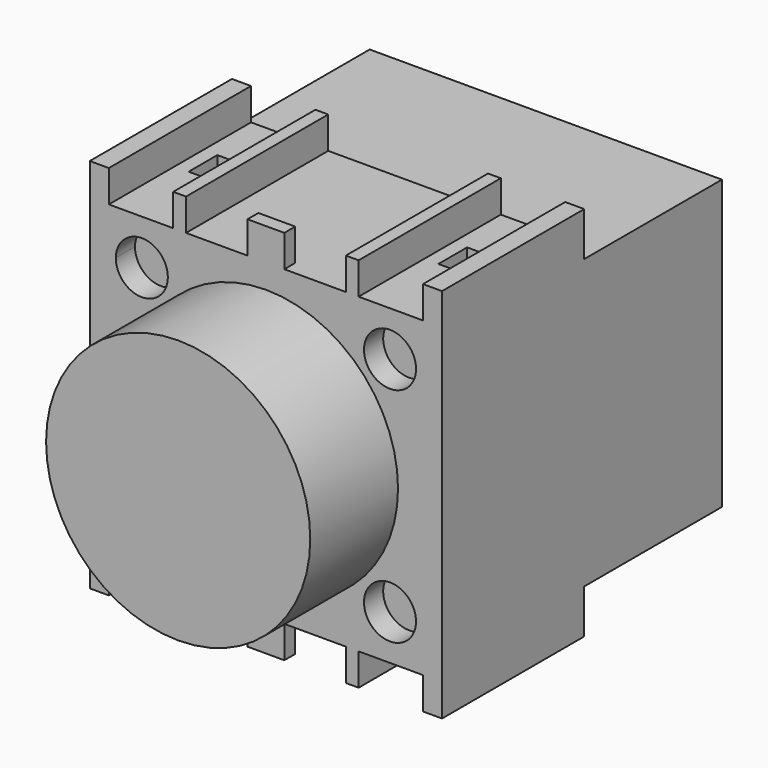
from build123d import *

# Parameters (mm, degrees)
F0_R      = 3.25
F0_R_2    = 16.5
F1_DEPTH  = 22.2
F2_W      = 4.6
F2_H      = 20.5
F3_DEPTH  = 4
F4_W      = 4.6
F4_H      = 20.5
F5_DEPTH  = 4
F6_DEPTH  = 3
F7_DEPTH  = 13.7
F8_W      = 44
F8_H      = 36
F9_DEPTH  = 21.5
F10_W     = 4.527392
F10_H     = 4.484308
F12_DEPTH = 3
F11_W     = 4.516719
F11_H     = 4.586656
F11_W_2   = 4.516715
F11_H_2   = 4.484454
F13_DEPTH = 3


with BuildPart() as f1:
    # F0 (on Front) → F1 (new body)
    with BuildSketch(Plane.XZ):
        Polygon((19.62, -23.5), (22, -23.5), (22, -19.5), (22, 19.5), (22, 23.5), (19.62, 23.5), (19.62, 19.5), (11.58, 19.5), (11.58, 23.5), (9.98, 23.5), (9.98, 19.5), (2.3, 19.5), (2.3, 23.5), (-2.3, 23.5), (-2.3, 19.5), (-9.98, 19.5), (-9.98, 23.5), (-11.58, 23.5), (-11.58, 19.5), (-19.62, 19.5), (-19.62, 23.5), (-22, 23.5), (-22, 19.5), (-22, 13.9), (-22, -19.5), (-22, -23.5), (-19.62, -23.5), (-19.62, -19.5), (-11.58, -19.5), (-11.58, -23.5), (-9.98, -23.5), (-9.98, -19.5), (-2.3, -19.5), (-2.3, -23.5), (2.3, -23.5), (2.3, -19.5), (9.98, -19.5), (9.98, -23.5), (11.58, -23.5), (11.58, -19.5), (19.62, -19.5), align=None)
        with Locations((-15.500009, -13.888962)):
            Circle(F0_R, mode=Mode.SUBTRACT)
        with Locations((15.500009, -13.888962)):
            Circle(F0_R, mode=Mode.SUBTRACT)
        with BuildLine():
            ThreePointArc((-12.250009, 13.888962), (-15.502769, 10.638963), (-18.750005, 13.894481))
            ThreePointArc((-18.750005, 13.894481), (-15.49725, 17.13896), (-12.250009, 13.888962))
        make_face(mode=Mode.SUBTRACT)
        Circle(F0_R_2, mode=Mode.SUBTRACT)
        with Locations((15.500009, 13.888962)):
            Circle(F0_R, mode=Mode.SUBTRACT)
        with BuildLine():
            ThreePointArc((-12.250009, 13.888962), (-15.49725, 17.13896), (-18.750005, 13.894481))
            ThreePointArc((-18.750005, 13.894481), (-15.502769, 10.638963), (-12.250009, 13.888962))
        make_face()
        with Locations((15.500009, 13.888962)):
            Circle(F0_R)
        Circle(F0_R_2)
        with Locations((-15.500009, -13.888962)):
            Circle(F0_R)
        with Locations((15.500009, -13.888962)):
            Circle(F0_R)
    extrude(amount=-F1_DEPTH)

    # F2 (on face) → F3 (cut)
    with BuildSketch(Plane.XY.offset(23.5)):
        with Locations((0, 11.95)):
            Rectangle(F2_W, F2_H)
    extrude(amount=-F3_DEPTH, mode=Mode.SUBTRACT)

    # F4 (on face) → F5 (cut)
    with BuildSketch(Plane(origin=(0, 0, -23.5), x_dir=(1, 0, 0), z_dir=(0, 0, -1))):
        with Locations((0, -11.95)):
            Rectangle(F4_W, F4_H)
    extrude(amount=-F5_DEPTH, mode=Mode.SUBTRACT)

    # F0 (on Front) → F6 (cut)
    with BuildSketch(Plane.XZ):
        with BuildLine():
            ThreePointArc((-12.250009, 13.888962), (-15.49725, 17.13896), (-18.750005, 13.894481))
            ThreePointArc((-18.750005, 13.894481), (-15.502769, 10.638963), (-12.250009, 13.888962))
        make_face()
        with Locations((15.500009, 13.888962)):
            Circle(F0_R)
        with Locations((15.500009, -13.888962)):
            Circle(F0_R)
        with Locations((-15.500009, -13.888962)):
            Circle(F0_R)
    extrude(amount=-F6_DEPTH, mode=Mode.SUBTRACT)

    # F0 (on Front) → F7 (join)
    with BuildSketch(Plane.XZ):
        Circle(F0_R_2)
    extrude(amount=F7_DEPTH)

    # F8 (on face) → F9 (join)
    with BuildSketch(Plane(origin=(0, 22.2, 0), x_dir=(-1, 0, 0), z_dir=(0, 1, 0))):
        Rectangle(F8_W, F8_H)
    extrude(amount=F9_DEPTH)

    # F10 (on face) → F12 (cut)
    with BuildSketch(Plane.XY.offset(19.5)):
        with Locations((-15.6, 12.5)):
            Rectangle(F10_W, F10_H)
        Polygon((13.336304, 10.257846), (15.6, 10.257846), (17.863696, 10.257846), (17.863696, 14.742154), (13.336304, 14.742154), align=None)
    extrude(amount=-F12_DEPTH, mode=Mode.SUBTRACT)

    # F11 (on face) → F13 (cut)
    with BuildSketch(Plane(origin=(0, 0, -19.5), x_dir=(1, 0, 0), z_dir=(0, 0, -1))):
        with Locations((15.625707, -12.502325)):
            Rectangle(F11_W, F11_H)
        with Locations((-15.580125, -12.502325)):
            Rectangle(F11_W_2, F11_H_2)
    extrude(amount=-F13_DEPTH, mode=Mode.SUBTRACT)


solid = f1.part
